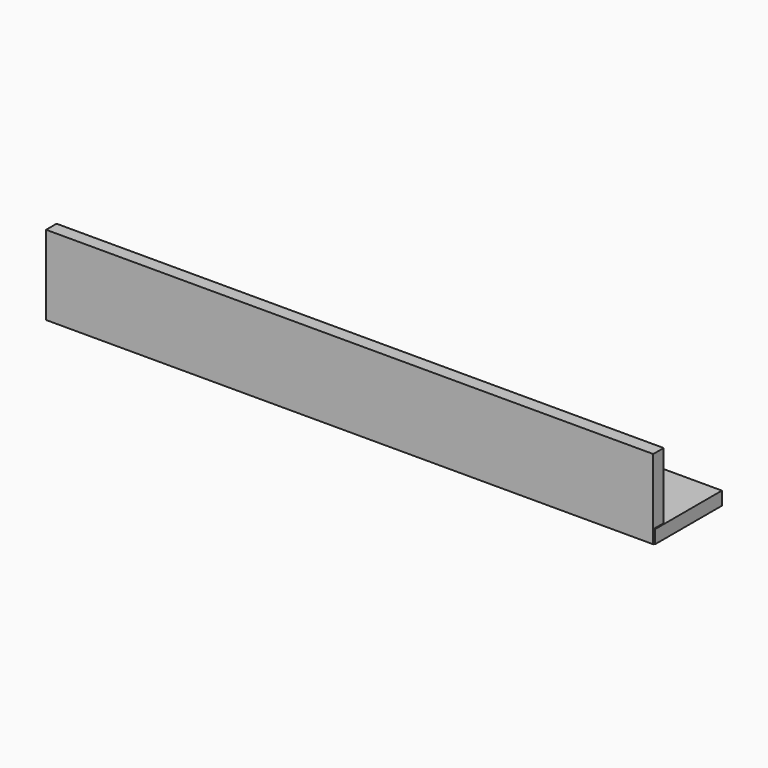
from build123d import *

# Parameters (mm, degrees)
F0_W     = 128.932267
F0_H     = 17.670919
F1_DEPTH = 2.82063
F2_W     = 128.624935
F2_H     = 2.773583
F3_DEPTH = 16.835


with BuildPart() as f1:
    # F0 (on Top) → F1 (new body)
    with BuildSketch(Plane.XY):
        with Locations((5.563065, 45.977117)):
            Rectangle(F0_W, F0_H)
    extrude(amount=F1_DEPTH)

    # F2 (on Top) → F3 (join)
    with BuildSketch(Plane.XY):
        with Locations((5.480853, 38.305595)):
            Rectangle(F2_W, F2_H)
    extrude(amount=F3_DEPTH)


solid = f1.part
